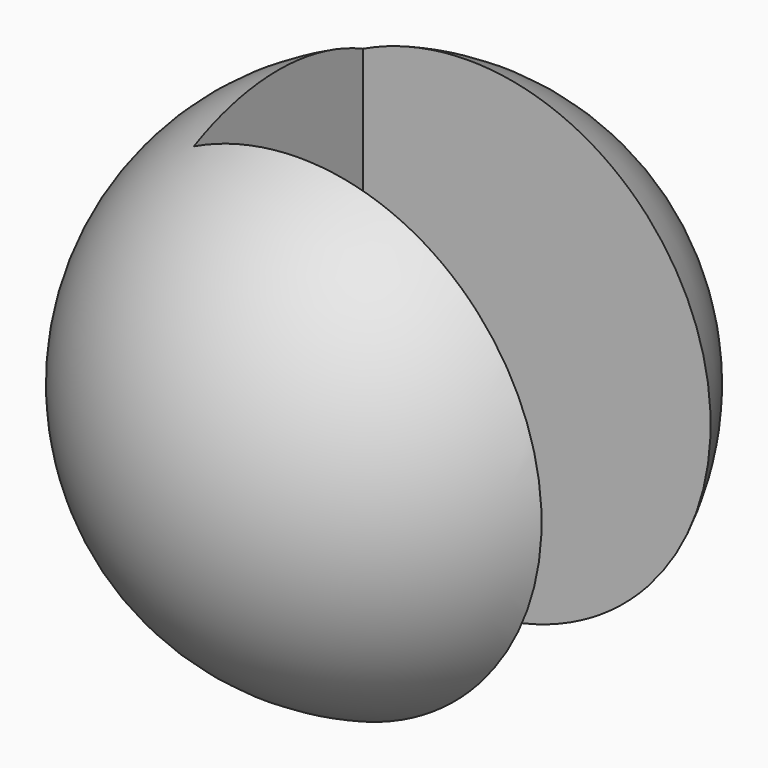
from build123d import *

# Parameters (mm, degrees)
BOX_W     = 5
BOX_H     = 0.4
BOX_DEPTH = 5


with BuildPart() as box:
    # Box → Box (new body)
    with BuildSketch(Plane(origin=(-0.2, -0.2, -1), x_dir=(1, 0, 0), z_dir=(0, 0, 1))):
        with Locations((2.5, 0.2)):
            Rectangle(BOX_W, BOX_H)
    extrude(amount=BOX_DEPTH)


with BuildPart() as cut:
    # Sphere → Sphere (revolve)
    with BuildSketch(Plane.XZ):
        with BuildLine():
            ThreePointArc((0, -0.5), (0.5, 0), (0, 0.5))
            Line((0, 0.5), (0, -0.5))
        make_face()
    revolve(axis=Axis((0, 0, 0), (0, 0, 1)))

    # Cut: cut Box
    add(box.part, mode=Mode.SUBTRACT)


solid = cut.part
